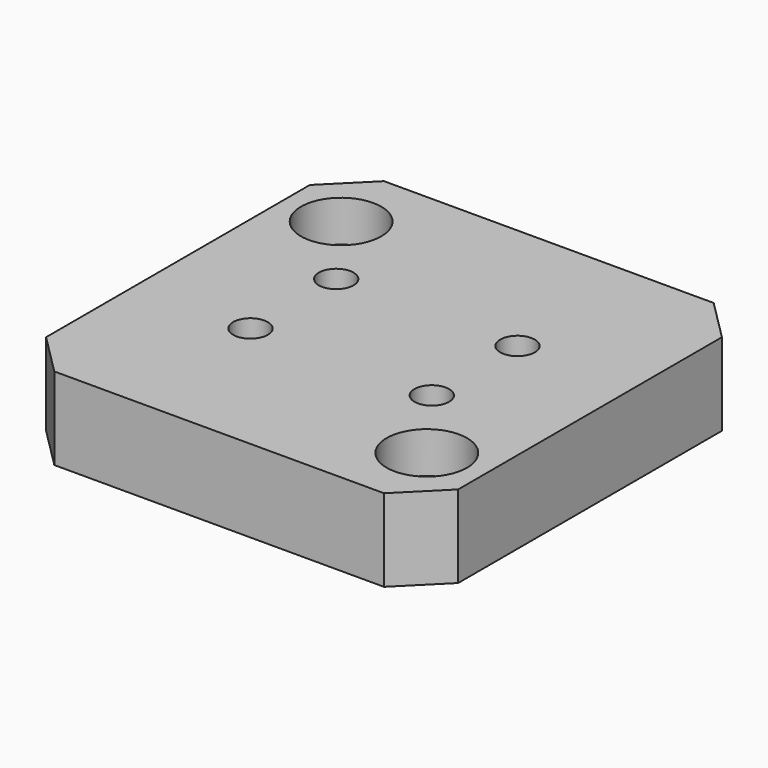
from build123d import *

# Parameters (mm, degrees)
F0_W           = 7
F0_H           = 9
F0_H_2         = 13
F0_W_2         = 22
F0_H_3         = 9.5
F1_DEPTH       = 10
F2_D           = 4.2
F3_SIZE        = 5
F4_D           = 5.5
F4_CBORE_D     = 9.75
F4_CBORE_DEPTH = 5


with BuildPart() as f1:
    # F0 (on Top) → F1 (new body)
    with BuildSketch(Plane.XY):
        with Locations((45.9692735374, -36.8180999458)):
            Rectangle(F0_W, F0_H)
        with Locations((45.9692735374, -16.3180999458)):
            Rectangle(F0_W, F0_H_2)
        with Locations((45.9692735374, 4.1819000542)):
            Rectangle(F0_W, F0_H)
        with Locations((24.4692735374, 4.1819000542)):
            Rectangle(F0_W_2, F0_H)
        with Locations((2.9692735374, 4.1819000542)):
            Rectangle(F0_W, F0_H)
        with Locations((2.9692735374, -16.3180999458)):
            Rectangle(F0_W, F0_H_2)
        with Locations((24.4692735374, -16.3180999458)):
            Rectangle(F0_W_2, F0_H_2)
        with Locations((24.4692735374, -36.8180999458)):
            Rectangle(F0_W_2, F0_H)
        with Locations((2.9692735374, -36.8180999458)):
            Rectangle(F0_W, F0_H)
        with Locations((2.9692735374, -5.0680999458)):
            Rectangle(F0_W, F0_H_3)
        with Locations((9.9692735374, -5.0680999458)):
            Rectangle(F0_W, F0_H_3)
        with Locations((9.9692735374, 4.1819000542)):
            Rectangle(F0_W, F0_H)
        with Locations((24.4692735374, -5.0680999458)):
            Rectangle(F0_W_2, F0_H_3)
        with Locations((38.9692735374, -5.0680999458)):
            Rectangle(F0_W, F0_H_3)
        with Locations((38.9692735374, 4.1819000542)):
            Rectangle(F0_W, F0_H)
        with Locations((45.9692735374, -5.0680999458)):
            Rectangle(F0_W, F0_H_3)
        with Locations((38.9692735374, -16.3180999458)):
            Rectangle(F0_W, F0_H_2)
        with Locations((9.9692735374, -16.3180999458)):
            Rectangle(F0_W, F0_H_2)
        with Locations((2.9692735374, -27.5680999458)):
            Rectangle(F0_W, F0_H_3)
        with Locations((9.9692735374, -27.5680999458)):
            Rectangle(F0_W, F0_H_3)
        with Locations((24.4692735374, -27.5680999458)):
            Rectangle(F0_W_2, F0_H_3)
        with Locations((38.9692735374, -27.5680999458)):
            Rectangle(F0_W, F0_H_3)
        with Locations((45.9692735374, -27.5680999458)):
            Rectangle(F0_W, F0_H_3)
        with Locations((9.9692735374, -36.8180999458)):
            Rectangle(F0_W, F0_H)
        with Locations((38.9692735374, -36.8180999458)):
            Rectangle(F0_W, F0_H)
    extrude(amount=F1_DEPTH)

    # F2 (through all)
    with Locations(Plane(origin=(0, 0, 0), x_dir=(1, 0, 0), z_dir=(0, 0, -1))):
        with Locations((13.4692735374, 9.8180999458), (35.4692735374, 9.8180999458), (35.4692735374, 22.8180999458), (13.4692735374, 22.8180999458)):
            Hole(F2_D / 2)

    # F3
    f3_edges = [f1.edges().sort_by_distance(p)[0] for p in [
        (49.469274, 8.6819, 5),
        (49.469274, -41.3181, 5),
        (-0.530726, -41.3181, 5),
        (-0.530726, 8.6819, 5),
    ]]
    chamfer(f3_edges, length=F3_SIZE)

    # F4 (through all)
    with Locations(Plane(origin=(0, 0, 0), x_dir=(1, 0, 0), z_dir=(0, 0, -1))):
        with Locations((6.4692735374, 0.3180999458), (42.4692735374, 32.3180999458)):
            CounterBoreHole(F4_D / 2, F4_CBORE_D / 2, F4_CBORE_DEPTH)


with BuildPart() as f5_1:
    # F5: instance of F1
    add(f1.part.mirror(Plane.XY))


solid = f5_1.part
